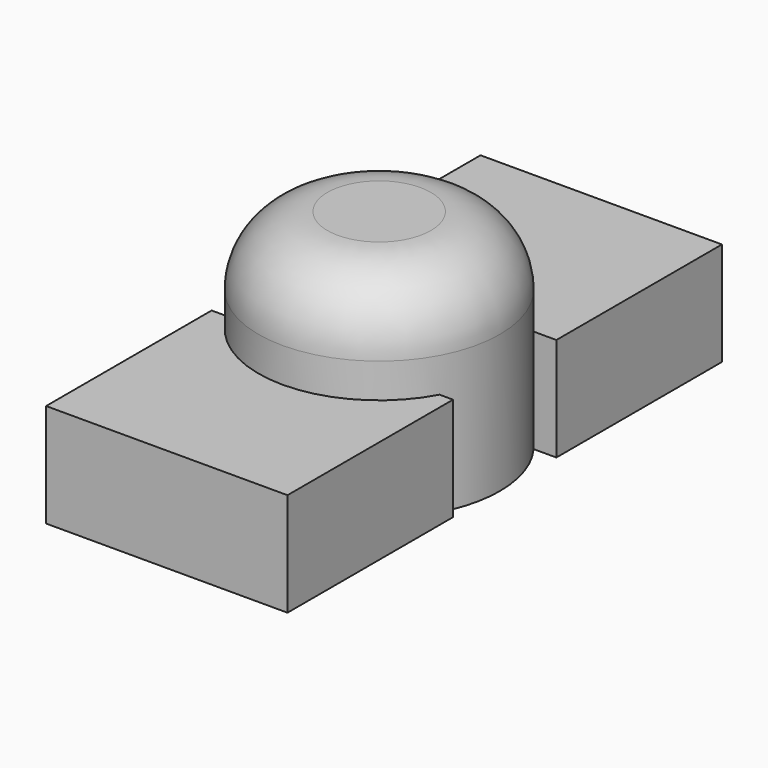
from build123d import *

# Parameters (mm, degrees)
F0_R     = 44.45
F1_DEPTH = 76.2
F2_R     = 25.4
F3_W     = 88.9
F3_H     = 76.2
F4_DEPTH = 38.1


with BuildPart() as f1:
    # F0 (on Top) → F1 (new body)
    with BuildSketch(Plane.XY):
        with Locations((0, 21.087829)):
            Circle(F0_R)
    extrude(amount=F1_DEPTH)

    # F2
    f2_edges = [f1.edges().sort_by_distance(p)[0] for p in [
        (-44.45, 21.087829, 76.2),
    ]]
    fillet(f2_edges, radius=F2_R)

    # F3 (on Top) → F4 (join)
    with BuildSketch(Plane.XY):
        with Locations((-0.375016, -38.1)):
            Rectangle(F3_W, F3_H)
        with Locations((-0.375016, 85.672979)):
            Rectangle(F3_W, F3_H)
    extrude(amount=F4_DEPTH)


solid = f1.part
